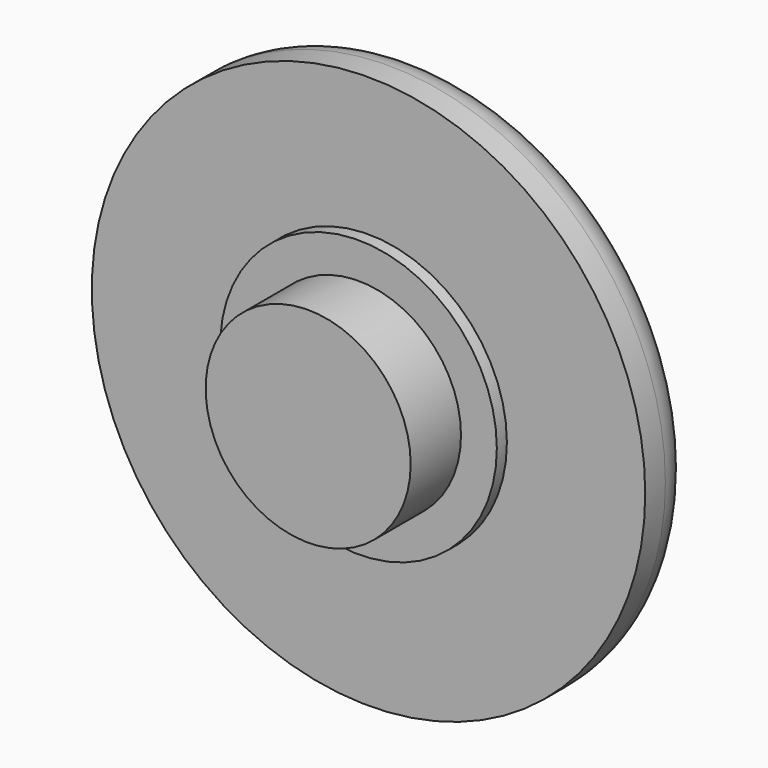
from build123d import *

# Parameters (mm, degrees)
F0_R     = 11
F0_R_2   = 5.5
F1_DEPTH = 2.5
F0_R_3   = 4.075
F2_DEPTH = 3
F3_DEPTH = 5.5
F4_R     = 1.5


with BuildPart() as f1:
    # F0 (on Front) → F1 (new body)
    with BuildSketch(Plane.XZ):
        Circle(F0_R)
        Circle(F0_R_2, mode=Mode.SUBTRACT)
    extrude(amount=F1_DEPTH)

    # F0 (on Front) → F2 (join)
    with BuildSketch(Plane.XZ):
        Circle(F0_R_2)
        Circle(F0_R_3, mode=Mode.SUBTRACT)
    extrude(amount=F2_DEPTH)

    # F0 (on Front) → F3 (join)
    with BuildSketch(Plane.XZ):
        Circle(F0_R_3)
    extrude(amount=F3_DEPTH)

    # F4
    f4_edges = [f1.edges().sort_by_distance(p)[0] for p in [
        (-11, 0, 0),
    ]]
    fillet(f4_edges, radius=F4_R)


solid = f1.part
